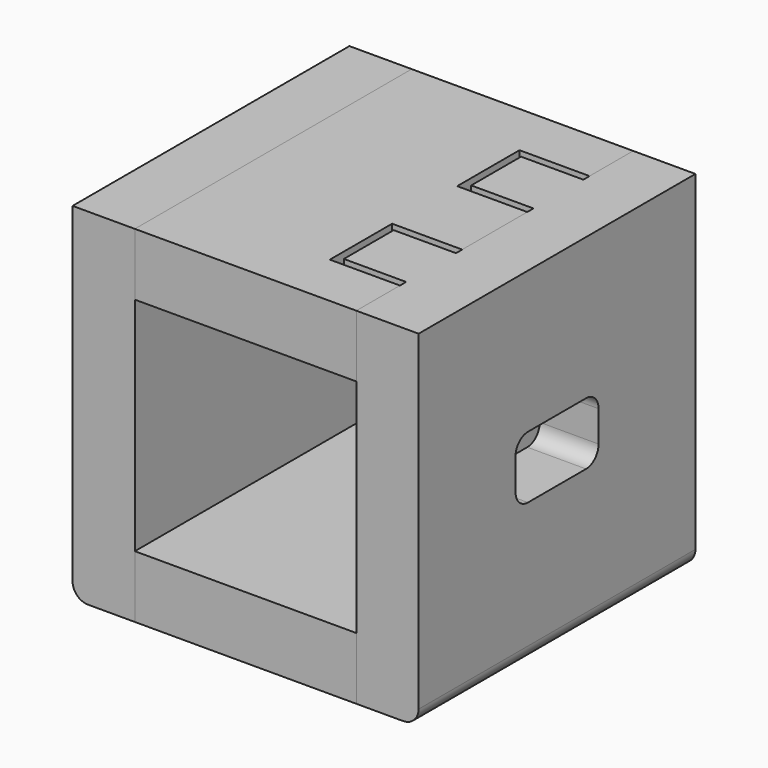
from build123d import *

# Parameters (mm, degrees)
F2_DEPTH  = 200
F1_W      = 128
F1_H      = 36
F3_DEPTH  = 200
F4_W      = 60
F4_H      = 36
F5_DEPTH  = 34
F6_R      = 9
F7_W      = 36
F7_H      = 36
F8_DEPTH  = 72
F9_OFFSET = 4.5
F10_DEPTH = 72
F11_R     = 9
F11_2_R   = 9


with BuildPart() as f2:
    # F1 (on Front) → F2 (new body)
    with BuildSketch(Plane.XZ):
        Polygon((-60.879735278, 111.4477722661), (-96.879735278, 111.4477722661), (-96.879735278, -88.5522277339), (-60.879735278, -88.5522277339), (-60.879735278, -52.5522277339), (-60.879735278, 75.4477722661), align=None)
    extrude(amount=F2_DEPTH)

    # F11#2
    f11_2_edges = [f2.edges().sort_by_distance(p)[0] for p in [
        (-96.879735, -100, -88.552228),
    ]]
    fillet(f11_2_edges, radius=F11_2_R)


with BuildPart() as f2b:
    # F1 (on Front) → F2, piece 2 (new body)
    with BuildSketch(Plane.XZ):
        Polygon((103.120264722, 111.4477722661), (67.120264722, 111.4477722661), (67.120264722, 75.4477722661), (67.120264722, -52.5522277339), (67.120264722, -88.5522277339), (103.120264722, -88.5522277339), align=None)
    extrude(amount=F2_DEPTH)

    # F4 (on face) → F5 (cut)
    with BuildSketch(Plane.YZ.offset(103.120264722)):
        with Locations((-100, 11.4477722661)):
            Rectangle(F4_W, F4_H)
    extrude(amount=-F5_DEPTH, mode=Mode.SUBTRACT)

    # F6
    f6_edges = [f2b.edges().sort_by_distance(p)[0] for p in [
        (86.120265, -130, 29.447772),
        (86.120265, -70, 29.447772),
        (86.120265, -70, -6.552228),
        (86.120265, -130, -6.552228),
    ]]
    fillet(f6_edges, radius=F6_R)

    # F7 (on face) → F10 (join)
    with BuildSketch(Plane.YZ.offset(103.120264722)):
        with Locations((-146, 93.4477722661)):
            Rectangle(F7_W, F7_H)
        with Locations((-54, 93.4477722661)):
            Rectangle(F7_W, F7_H)
    extrude(amount=-F10_DEPTH)

    # F11
    f11_edges = [f2b.edges().sort_by_distance(p)[0] for p in [
        (103.120265, -100, -88.552228),
    ]]
    fillet(f11_edges, radius=F11_R)


with BuildPart() as f3:
    # F1 (on Front) → F3 (new body)
    with BuildSketch(Plane.XZ):
        with Locations((3.120264722, 93.4477722661)):
            Rectangle(F1_W, F1_H)
    extrude(amount=F3_DEPTH)


with BuildPart() as f3b:
    # F1 (on Front) → F3, piece 2 (new body)
    with BuildSketch(Plane.XZ):
        with Locations((3.120264722, -70.5522277339)):
            Rectangle(F1_W, F1_H)
    extrude(amount=F3_DEPTH)


with BuildPart() as f8:
    # F7 (on face) → F8 (new body)
    with BuildSketch(Plane.YZ.offset(103.120264722)):
        with Locations((-54, 93.4477722661)):
            Rectangle(F7_W, F7_H)
    extrude(amount=-F8_DEPTH)


with BuildPart() as f8b:
    # F7 (on face) → F8, piece 2 (new body)
    with BuildSketch(Plane.YZ.offset(103.120264722)):
        with Locations((-146, 93.4477722661)):
            Rectangle(F7_W, F7_H)
    extrude(amount=-F8_DEPTH)


with BuildPart() as f3_1:
    add(f3.part)

    # F9: cut F8b, F8, each made larger all round first
    f9_tool = offset(f8b.part, amount=F9_OFFSET, kind=Kind.INTERSECTION, mode=Mode.PRIVATE)
    add(f9_tool, mode=Mode.SUBTRACT)
    f9_tool1 = offset(f8.part, amount=F9_OFFSET, kind=Kind.INTERSECTION, mode=Mode.PRIVATE)
    add(f9_tool1, mode=Mode.SUBTRACT)


solid = Compound([f2.part, f2b.part, f3b.part, f3_1.part])
